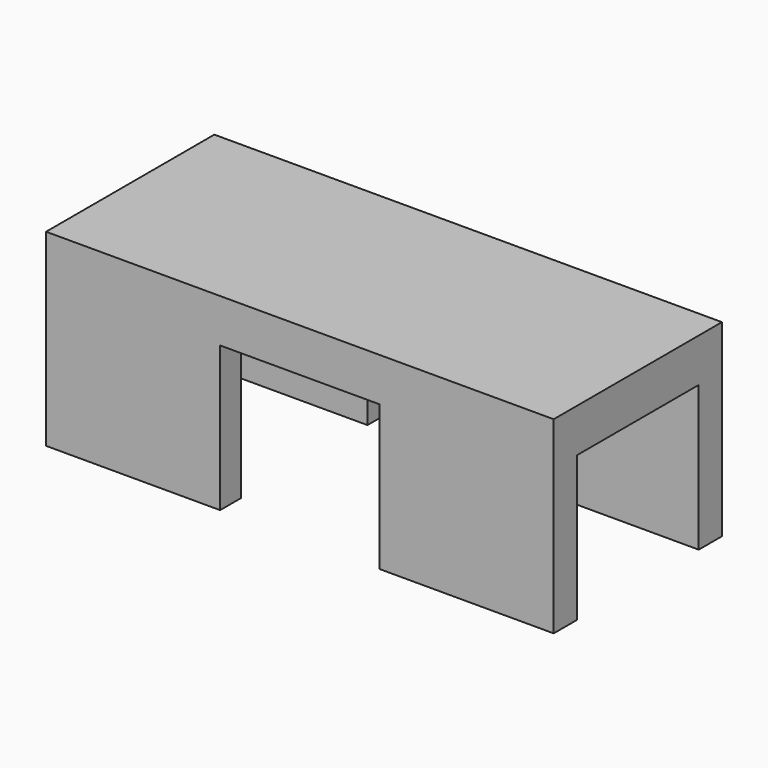
from build123d import *

# Parameters (mm, degrees)
BOX_W        = 35
BOX_H        = 14.5
BOX_DEPTH    = 3
SKETCH006_W  = 1.8
SKETCH006_H  = 10
PAD002_DEPTH = 12
SKETCH007_W  = 2
SKETCH007_H  = 10
PAD003_DEPTH = 12


with BuildPart() as part:
    # Box → Box (new body)
    with BuildSketch(Plane(origin=(0, -8.5, 10), x_dir=(1, 0, 0), z_dir=(0, 0, 1))):
        with Locations((17.5, 7.25)):
            Rectangle(BOX_W, BOX_H)
    extrude(amount=BOX_DEPTH)

    # Sketch006 → Pad002 (new body)
    with BuildSketch(Plane(origin=(0, -8.5, 10), x_dir=(0, -1, 0), z_dir=(-1, 0, 0))):
        with Locations((-13.6, -5)):
            Rectangle(SKETCH006_W, SKETCH006_H)
        with Locations((-0.9, -5)):
            Rectangle(SKETCH006_W, SKETCH006_H)
    extrude(amount=-PAD002_DEPTH)

    # Sketch007 → Pad003 (new body)
    with BuildSketch(Plane(origin=(35, -8.5, 10), x_dir=(0, 1, 0), z_dir=(1, 0, 0))):
        with Locations((13.5, -5)):
            Rectangle(SKETCH007_W, SKETCH007_H)
        with Locations((1, -5)):
            Rectangle(SKETCH007_W, SKETCH007_H)
    extrude(amount=-PAD003_DEPTH)


solid = part.part
